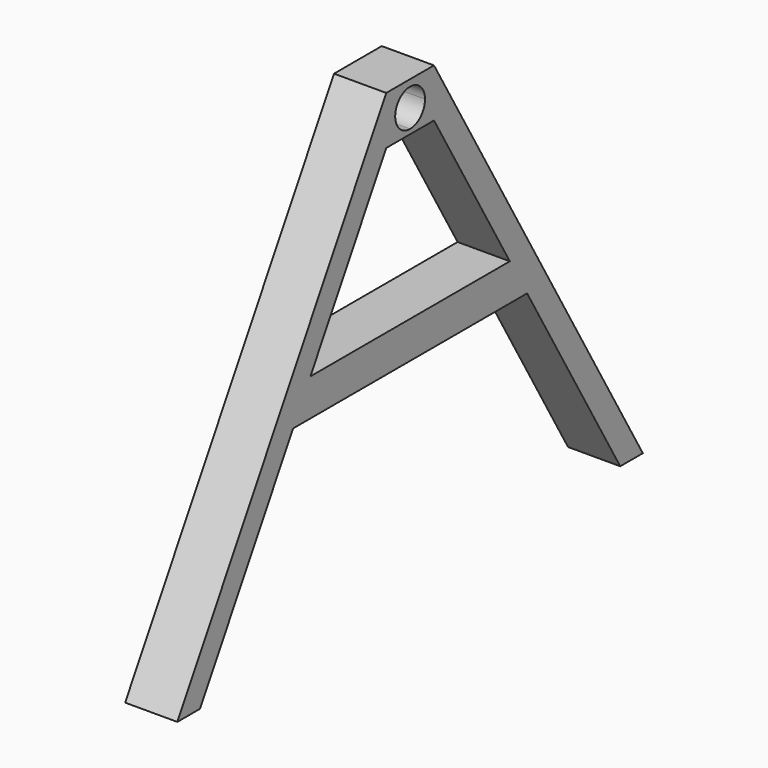
from build123d import *

# Parameters (mm, degrees)
F0_W     = 40
F0_H     = 49.6401012129
F1_DEPTH = 70


with BuildPart() as f1:
    # F0 (on Right) → F1 (new body)
    with BuildSketch(Plane.YZ):
        Polygon((-390, 0), (-352.0833333333, 0), (-196.0416666667, 267.5), (-167.0849409591, 317.1401012129), (-40, 535), (-40, 600), align=None)
        with BuildLine():
            Line((0, 541.2268400192), (0, 535))
            Line((0, 535), (40, 535))
            Line((40, 535), (40, 600))
            Line((40, 600), (0, 600))
            Line((0, 600), (0, 591.2268400192))
            ThreePointArc((0, 591.2268400192), (17.6776695297, 583.9045095489), (25, 566.2268400192))
            ThreePointArc((25, 566.2268400192), (17.6776695297, 548.5491704896), (0, 541.2268400192))
        make_face()
        with BuildLine():
            Line((-40, 535), (0, 535))
            Line((0, 535), (0, 541.2268400192))
            ThreePointArc((0, 541.2268400192), (-25, 566.2268400192), (0, 591.2268400192))
            Line((0, 591.2268400192), (0, 600))
            Line((0, 600), (-40, 600))
            Line((-40, 600), (-40, 535))
        make_face()
        Polygon((196.0416666667, 267.5), (352.0833333333, 0), (390, 0), (40, 600), (40, 535), (167.0849409591, 317.1401012129), align=None)
        Polygon((40, 317.1401012129), (40, 267.5), (196.0416666667, 267.5), (167.0849409591, 317.1401012129), align=None)
        with Locations((20, 292.3200506065)):
            Rectangle(F0_W, F0_H)
        with Locations((-20, 292.3200506065)):
            Rectangle(F0_W, F0_H)
        Polygon((-196.0416666667, 267.5), (-40, 267.5), (-40, 317.1401012129), (-167.0849409591, 317.1401012129), align=None)
    extrude(amount=F1_DEPTH)


solid = f1.part
